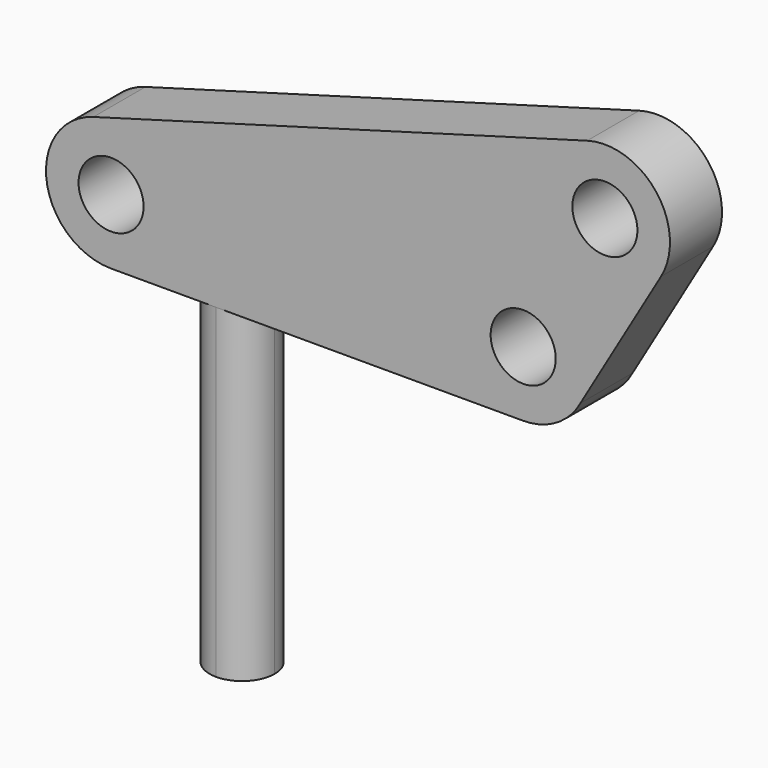
from build123d import *

# Parameters (mm, degrees)
F0_R     = 3
F1_DEPTH = 6
F3_DEPTH = 30


with BuildPart() as f1:
    # F0 (on Front) → F1 (new body)
    with BuildSketch(Plane.XZ):
        with BuildLine():
            Line((43.899478, 18.654077), (-1.633233, 5.773435))
            ThreePointArc((-1.633233, 5.773435), (-5.943089, -0.824437), (0, -6))
            Line((0, -6), (38, -6))
            ThreePointArc((38, -6), (41.069738, -5.15526), (43.2751, -2.858903))
            Line((43.2751, -2.858903), (50.711403, 9.8506))
            ThreePointArc((50.711403, 9.8506), (50.278011, 16.552444), (43.899478, 18.654077))
        make_face()
        Circle(F0_R, mode=Mode.SUBTRACT)
        with Locations((38, 0)):
            Circle(F0_R, mode=Mode.SUBTRACT)
        with Locations((45.532712, 12.880642)):
            Circle(F0_R, mode=Mode.SUBTRACT)
    extrude(amount=F1_DEPTH)

    # F2 (on face) → F3 (join)
    with BuildSketch(Plane(origin=(0, 0, -6), x_dir=(1, 0, 0), z_dir=(0, 0, -1))):
        with BuildLine():
            ThreePointArc((9.682586, 0), (11.803907, 0.87868), (12.682586, 3))
            ThreePointArc((12.682586, 3), (11.803907, 5.12132), (9.682586, 6))
            ThreePointArc((9.682586, 6), (6.682586, 3), (9.682586, 0))
        make_face()
    extrude(amount=F3_DEPTH)


solid = f1.part
